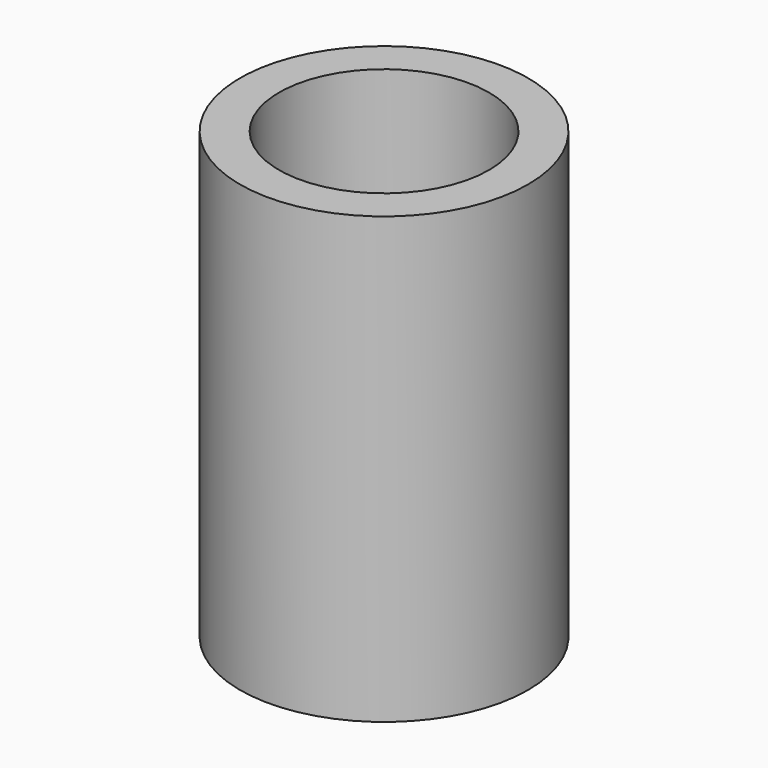
from build123d import *

# Parameters (mm, degrees)
F0_W      = 10
F0_H      = 6.7840377057
F1_DEPTH  = 5
F2_W      = 3.0169537012
F2_H      = 6.7840377057
F2_H_2    = 2.6365290302
F3_DEPTH  = 5
F5_DEPTH  = 5
F6_DEPTH  = 3.302
F8_R      = 1.8742550682
F9_DEPTH  = 5.7912
F11_R     = 1.3662550682
F12_DEPTH = 25.4


with BuildPart() as f1:
    # F0 (on Top) → F1 (new body)
    with BuildSketch(Plane.XY):
        Rectangle(F0_W, F0_H)
    extrude(amount=F1_DEPTH)

    # F2 (on face) → F3 (join, through all)
    with BuildSketch(Plane.XY.offset(5)):
        with Locations((-3.4915231494, 0)):
            Rectangle(F2_W, F2_H)
        with Locations((-3.4915231494, 4.7102833679)):
            Rectangle(F2_W, F2_H_2)
    extrude(amount=-F3_DEPTH)

    # F4 (on face) → F5 (join, through all)
    with BuildSketch(Plane.XY.offset(5)):
        with BuildLine():
            ThreePointArc((5, -0.0776856728), (5.9297045256, 0.8520188529), (6.27, 2.1220188529))
            ThreePointArc((6.27, 2.1220188529), (4.3874003746, 4.5754704516), (1.5302954744, 3.3920188529))
            Line((1.5302954744, 3.3920188529), (5, 3.3920188529))
            Line((5, 3.3920188529), (5, -0.0776856728))
        make_face()
    extrude(amount=-F5_DEPTH)

    # F6 (cut): a face of the model
    f6_faces = [f1.faces().sort_by_distance(p)[0] for p in [
        (0.07415591, 0.7148582384, 5),
    ]]
    extrude(f6_faces, amount=-F6_DEPTH, mode=Mode.SUBTRACT)


with BuildPart() as f9:
    # F8 (on offset) → F9 (new body)
    with BuildSketch(Plane.XY.offset(14.398)):
        with Locations((3.73, 2.1220188529)):
            Circle(F8_R)
    extrude(amount=F9_DEPTH)

    # F11 (on face) → F12 (cut)
    with BuildSketch(Plane.XY.offset(20.1892)):
        with Locations((3.73, 2.1220188529)):
            Circle(F11_R)
    extrude(amount=-F12_DEPTH, mode=Mode.SUBTRACT)


solid = f9.part
